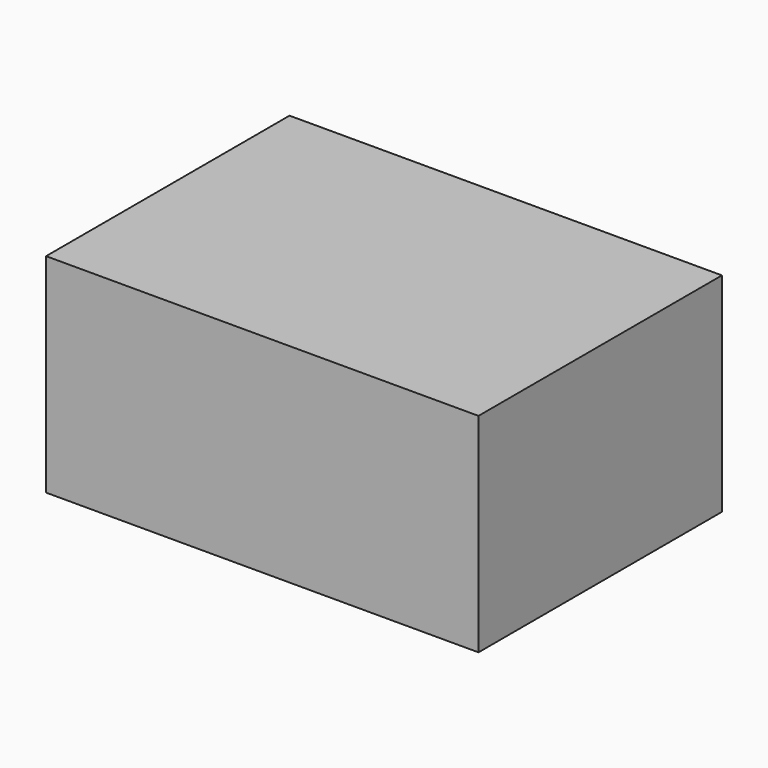
from build123d import *

# Parameters (mm, degrees)
F0_W     = 108
F0_H     = 76
F0_W_2   = 102
F0_H_2   = 70
F1_DEPTH = 47
F2_START = 43
F2_DEPTH = 4
F3_SIZE  = 10.1
F4_DEPTH = 5


with BuildPart() as f1:
    # F0 (on Top) → F1 (new body)
    with BuildSketch(Plane.XY):
        Rectangle(F0_W, F0_H)
        Rectangle(F0_W_2, F0_H_2, mode=Mode.SUBTRACT)
    extrude(amount=F1_DEPTH)

    # F0 (on Top) → F2 (join)
    with BuildSketch(Plane.XY.offset(F2_START)):
        Rectangle(F0_W_2, F0_H_2)
    extrude(amount=F2_DEPTH)

    # F3
    f3_edges = [f1.edges().sort_by_distance(p)[0] for p in [
        (0, 35, 43),
        (-51, 0, 43),
        (0, -35, 43),
        (51, 0, 43),
        (51, 35, 21.5),
        (-51, 35, 21.5),
        (-51, -35, 21.5),
        (51, -35, 21.5),
    ]]
    chamfer(f3_edges, length=F3_SIZE)

    # F0 (on Top) → F4 (join)
    with BuildSketch(Plane.XY):
        Rectangle(F0_W, F0_H)
        Rectangle(F0_W_2, F0_H_2, mode=Mode.SUBTRACT)
    extrude(amount=-F4_DEPTH)


solid = f1.part
